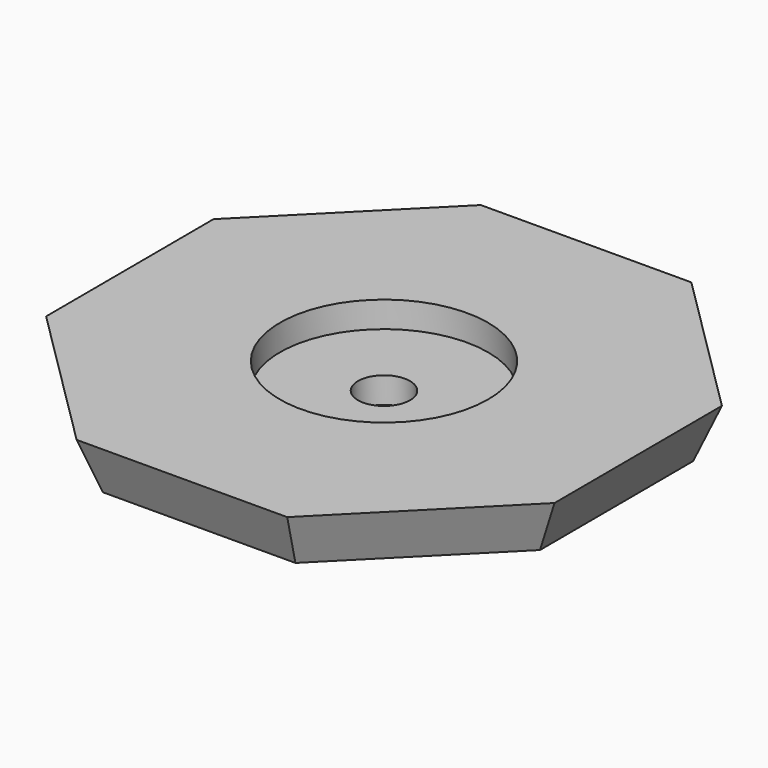
from build123d import *

# Parameters (mm, degrees)
F1_DEPTH = 6.35
F1_TAPER = 22.5
F2_R     = 12.7
F3_DEPTH = 3.175
F4_R     = 3.175
F5_DEPTH = 25.4


with BuildPart() as f1:
    # F0 (on Top) → F1 (new body)
    with BuildSketch(Plane.XY):
        Polygon((-30.9957823292, 12.7266398535), (-30.9164212153, -12.9182345311), (-12.7266398535, -30.9957823292), (12.9182345311, -30.9164212153), (30.9957823292, -12.7266398535), (30.9164212153, 12.9182345311), (12.7266398535, 30.9957823292), (-12.9182345311, 30.9164212153), align=None)
    extrude(amount=-F1_DEPTH, taper=F1_TAPER)

    # F2 (on face) → F3 (cut)
    with BuildSketch(Plane.XY):
        Circle(F2_R)
    extrude(amount=-F3_DEPTH, mode=Mode.SUBTRACT)

    # F4 (on face) → F5 (cut)
    with BuildSketch(Plane.XY.offset(-3.175)):
        Circle(F4_R)
    extrude(amount=-F5_DEPTH, mode=Mode.SUBTRACT)


solid = f1.part
